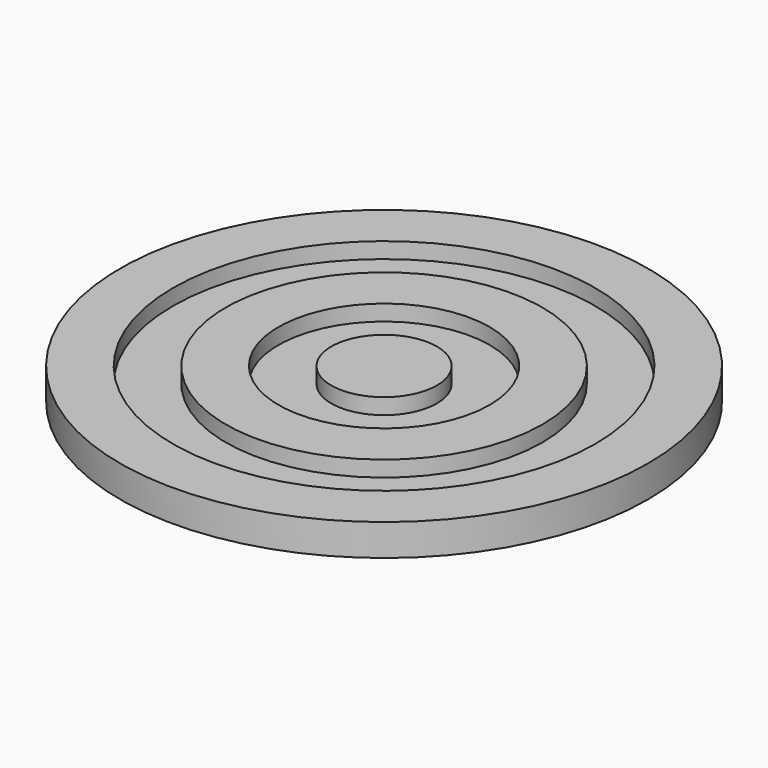
from build123d import *

# Parameters (mm, degrees)
F0_R     = 25
F1_DEPTH = 3
F2_R     = 20
F2_R_2   = 15
F2_R_3   = 10
F2_R_4   = 5
F3_DEPTH = 1.5


with BuildPart() as f1:
    # F0 (on Top) → F1 (new body)
    with BuildSketch(Plane.XY):
        Circle(F0_R)
    extrude(amount=F1_DEPTH)

    # F2 (on face) → F3 (cut)
    with BuildSketch(Plane.XY.offset(3)):
        Circle(F2_R)
        Circle(F2_R_2, mode=Mode.SUBTRACT)
        Circle(F2_R_3)
        Circle(F2_R_4, mode=Mode.SUBTRACT)
    extrude(amount=-F3_DEPTH, mode=Mode.SUBTRACT)


solid = f1.part
